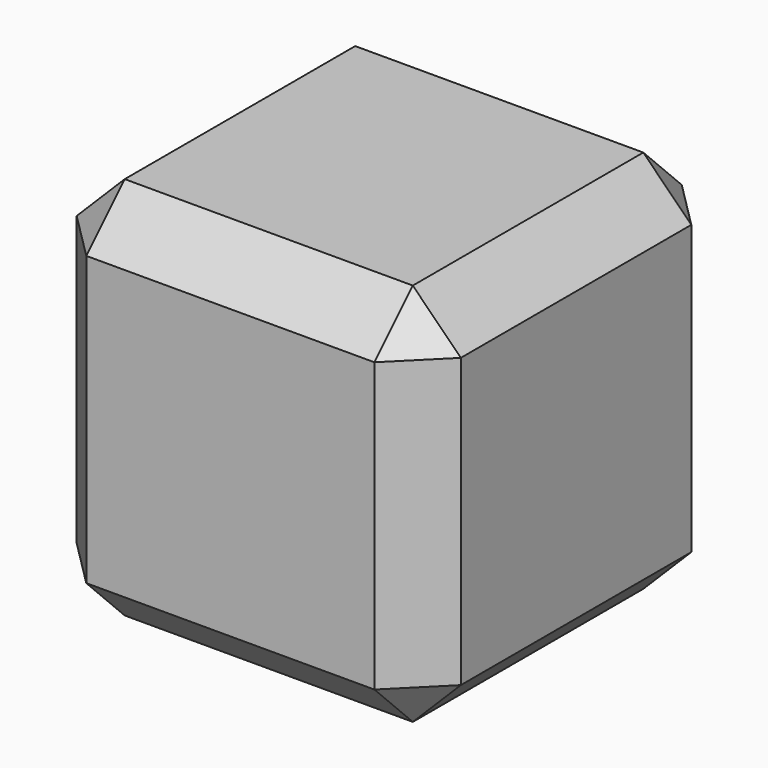
from build123d import *

# Parameters (mm, degrees)
F0_W     = 101.6
F0_H     = 101.6
F1_DEPTH = 50.8
F2_SIZE  = 12.7


with BuildPart() as f1:
    # F0 (on Front) → F1 (new body, symmetric)
    with BuildSketch(Plane.XZ):
        Rectangle(F0_W, F0_H)
    extrude(amount=F1_DEPTH, both=True)

    # F2
    f2_edges = [f1.edges().sort_by_distance(p)[0] for p in [
        (50.8, 0, 50.8),
        (0, -50.8, 50.8),
        (-50.8, 0, 50.8),
        (0, 50.8, 50.8),
        (50.8, 0, -50.8),
        (50.8, -50.8, 0),
        (50.8, 50.8, 0),
        (-50.8, -50.8, 0),
        (0, -50.8, -50.8),
        (-50.8, 50.8, 0),
        (0, 50.8, -50.8),
        (-50.8, 0, -50.8),
    ]]
    chamfer(f2_edges, length=F2_SIZE)


solid = f1.part
